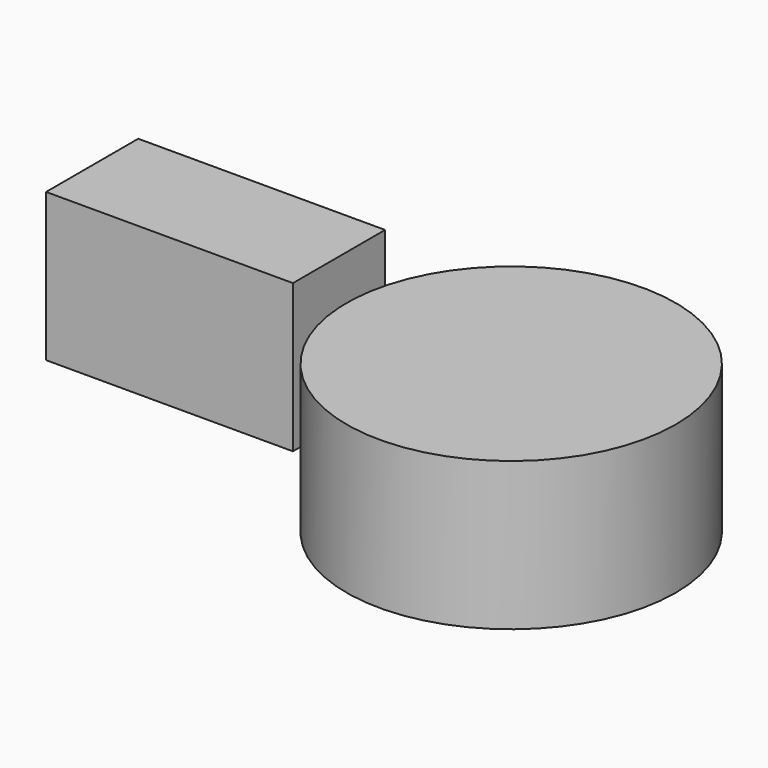
from build123d import *

# Parameters (mm, degrees)
F0_W     = 15
F0_H     = 7
F0_R     = 10
F1_DEPTH = 4.5


with BuildPart() as f1:
    # F0 (on Top) → F1 (new body, symmetric)
    with BuildSketch(Plane.XY):
        with Locations((7.5, 3.5)):
            Rectangle(F0_W, F0_H)
        with Locations((28.261291, 0)):
            Circle(F0_R)
    extrude(amount=F1_DEPTH, both=True)


solid = f1.part
